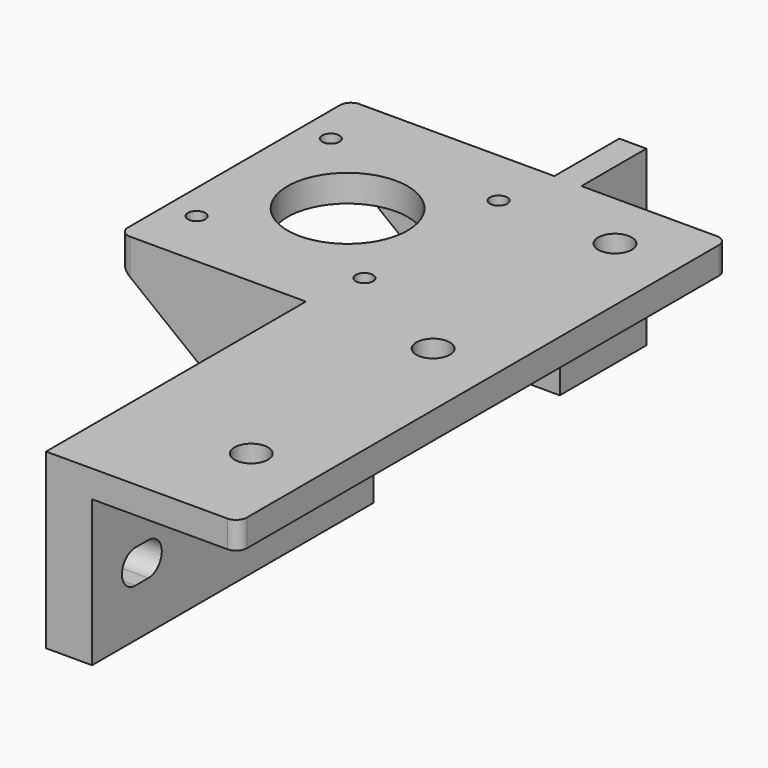
from build123d import *

# Parameters (mm, degrees)
PAD_DEPTH         = 60
PAD_DEPTH_BACK    = 53
SKETCH001_R       = 11.1
SKETCH001_R_2     = 3.1
SKETCH001_R_3     = 1.6
SKETCH001_W       = 34.5
SKETCH001_H       = 60
POCKET_DEPTH      = 27.001
POCKET_DEPTH_BACK = -5.001
POCKET001_DEPTH   = 43.001
PAD001_DEPTH      = 5
PAD002_DEPTH      = 5
SKETCH005_W       = 43
SKETCH005_H       = 27
POCKET002_DEPTH   = 43.001
SKETCH006_W       = 5
SKETCH006_H       = 32
PAD003_DEPTH      = 15
SKETCH007_R       = 3.1
POCKET003_DEPTH   = 43.001
FILLET_R          = 2


with BuildPart() as part:
    # Sketch → Pad (new body, two sides)
    with BuildSketch(Plane.XZ) as pad_sk:
        Polygon((-43, 5), (27, 5), (27, 0), (0, 0), (0, -27), (-8.5, -27), (-8.5, 0), (-43, 0), align=None)
    extrude(amount=PAD_DEPTH)
    extrude(pad_sk.sketch, amount=-PAD_DEPTH_BACK)

    # Sketch001 → Pocket (cut, two sides)
    with BuildSketch(Plane.XY) as pocket_sk:
        with Locations((-22, 26.5)):
            Circle(SKETCH001_R)
        with Locations((15, 42)):
            Circle(SKETCH001_R_2)
        with Locations((15, -42)):
            Circle(SKETCH001_R_2)
        with Locations((15, 0)):
            Circle(SKETCH001_R_2)
        with Locations((-37.5, 42)):
            Circle(SKETCH001_R_3)
        with Locations((-6.5, 42)):
            Circle(SKETCH001_R_3)
        with Locations((-6.5, 11)):
            Circle(SKETCH001_R_3)
        with Locations((-37.5, 11)):
            Circle(SKETCH001_R_3)
        with Locations((-25.75, -30)):
            Rectangle(SKETCH001_W, SKETCH001_H)
    extrude(amount=-POCKET_DEPTH, mode=Mode.SUBTRACT)
    extrude(pocket_sk.sketch, amount=-POCKET_DEPTH_BACK, mode=Mode.SUBTRACT)

    # Sketch002 → Pocket001 (cut, through all)
    with BuildSketch(Plane.YZ):
        with BuildLine():
            ThreePointArc((-50, -11.9), (-53.1, -15), (-50, -18.1))
            Line((-50, -18.1), (-47, -18.1))
            ThreePointArc((-47, -18.1), (-43.9, -15), (-47, -11.9))
            Line((-50, -11.9), (-47, -11.9))
        make_face()
        with BuildLine():
            ThreePointArc((-8, -11.9), (-11.1, -15), (-8, -18.1))
            Line((-8, -18.1), (-5, -18.1))
            ThreePointArc((-5, -18.1), (-1.9, -15), (-5, -11.9))
            Line((-8, -11.9), (-5, -11.9))
        make_face()
    extrude(amount=-POCKET001_DEPTH, mode=Mode.SUBTRACT)

    # Sketch003 → Pad001 (join)
    with BuildSketch(Plane.XZ):
        Polygon((-43, 5), (-43, 0), (-8.5, -27), (0, -27), (0, 5), align=None)
    extrude(amount=-PAD001_DEPTH)

    # Sketch004 (on Face1 of Pad001) → Pad002 (join)
    with BuildSketch(Plane(origin=(0, 53, 0), x_dir=(1, 0, 0), z_dir=(0, 1, 0))):
        Polygon((-43, -5), (0, -5), (0, 27), (-8.5, 27), (-43, 0), align=None)
    extrude(amount=-PAD002_DEPTH)

    # Sketch005 → Pocket002 (cut, through all)
    with BuildSketch(Plane.YZ):
        with Locations((26.5, -13.5)):
            Rectangle(SKETCH005_W, SKETCH005_H)
    extrude(amount=-POCKET002_DEPTH, mode=Mode.SUBTRACT)

    # Sketch006 (on Face4 of Pocket002) → Pad003 (join)
    with BuildSketch(Plane(origin=(0, 53, 0), x_dir=(1, 0, 0), z_dir=(0, 1, 0))):
        with Locations((-2.5, 11)):
            Rectangle(SKETCH006_W, SKETCH006_H)
    extrude(amount=PAD003_DEPTH)

    # Sketch007 → Pocket003 (cut, through all)
    with BuildSketch(Plane.YZ):
        with Locations((60.5, -15)):
            Circle(SKETCH007_R)
    extrude(amount=-POCKET003_DEPTH, mode=Mode.SUBTRACT)

    # Fillet
    fillet_edges = [part.edges().sort_by_distance(p)[0] for p in [
        (27, -60, 2.5),
        (27, 53, 2.5),
        (-43, 0, 2.5),
        (-43, 53, 2.5),
    ]]
    fillet(fillet_edges, radius=FILLET_R)


solid = part.part
